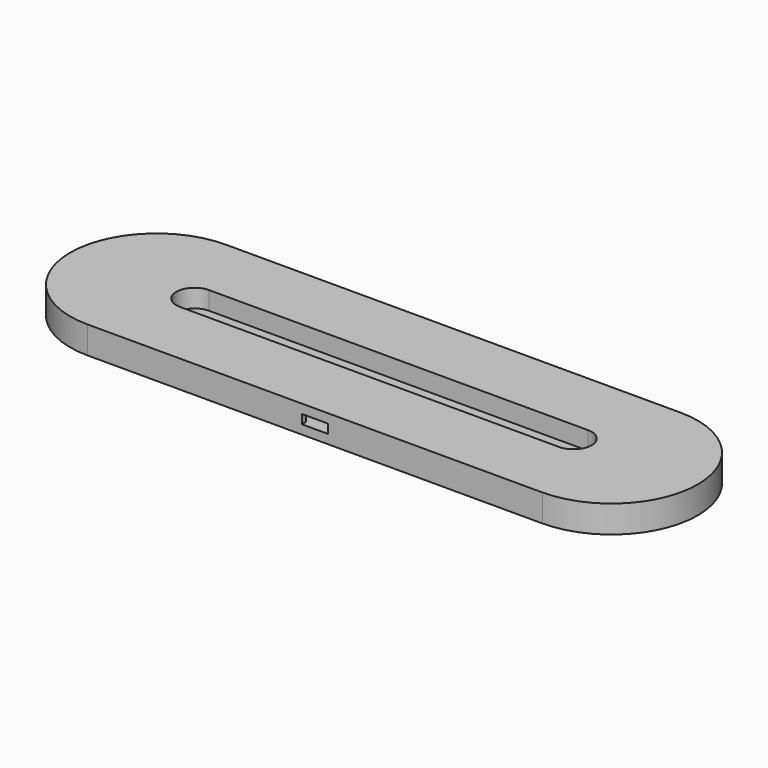
from build123d import *

# Parameters (mm, degrees)
PAD_DEPTH       = 6
POCKET_DEPTH    = 3
SKETCH002_W     = 18.4
SKETCH002_H     = 20.85
POCKET001_DEPTH = 3
SKETCH003_W     = 8.55
SKETCH003_H     = 1.65
POCKET002_DEPTH = 3
PAD001_DEPTH    = 3


with BuildPart() as part:
    # Sketch → Pad (new body)
    with BuildSketch(Plane.XY):
        with BuildLine():
            ThreePointArc((-75, 28.5), (-103.5, 0), (-75, -28.5))
            Line((-75, -28.5), (75, -28.5))
            ThreePointArc((75, -28.5), (103.5, 0), (75, 28.5))
            Line((-75, 28.5), (75, 28.5))
        make_face()
    extrude(amount=PAD_DEPTH)

    # Sketch001 (on Face6 of Pad) → Pocket (cut)
    with BuildSketch(Plane.XY.offset(6)):
        with BuildLine():
            ThreePointArc((-62.5, 6), (-68.5, 0), (-62.5, -6))
            Line((-62.5, -6), (62.5, -6))
            ThreePointArc((62.5, -6), (68.5, 0), (62.5, 6))
            Line((-62.5, 6), (62.5, 6))
        make_face()
    extrude(amount=-POCKET_DEPTH, mode=Mode.SUBTRACT)

    # Sketch002 (on Face5 of Pocket) → Pocket001 (cut)
    with BuildSketch(Plane.XY.offset(6)):
        with Locations((0, -16.425)):
            Rectangle(SKETCH002_W, SKETCH002_H)
    extrude(amount=-POCKET001_DEPTH, mode=Mode.SUBTRACT)

    # Sketch003 (on Face5 of Pocket001) → Pocket002 (cut)
    with BuildSketch(Plane.XY.offset(6)):
        with Locations((0, -27.675)):
            Rectangle(SKETCH003_W, SKETCH003_H)
    extrude(amount=-POCKET002_DEPTH, mode=Mode.SUBTRACT)

    # Sketch004 (on Face5 of Pocket002) → Pad001 (join)
    with BuildSketch(Plane.XY.offset(6)):
        with BuildLine():
            ThreePointArc((-75, 28.5), (-103.5, 0), (-75, -28.5))
            Line((-75, -28.5), (75, -28.5))
            ThreePointArc((75, -28.5), (103.5, 0), (75, 28.5))
            Line((-75, 28.5), (75, 28.5))
        make_face()
        with BuildLine():
            ThreePointArc((-62.5, 6), (-68.5, 0), (-62.5, -6))
            Line((-62.5, -6), (62.5, -6))
            ThreePointArc((62.5, -6), (68.5, 0), (62.5, 6))
            Line((-62.5, 6), (62.5, 6))
        make_face(mode=Mode.SUBTRACT)
    extrude(amount=PAD001_DEPTH)


solid = part.part
